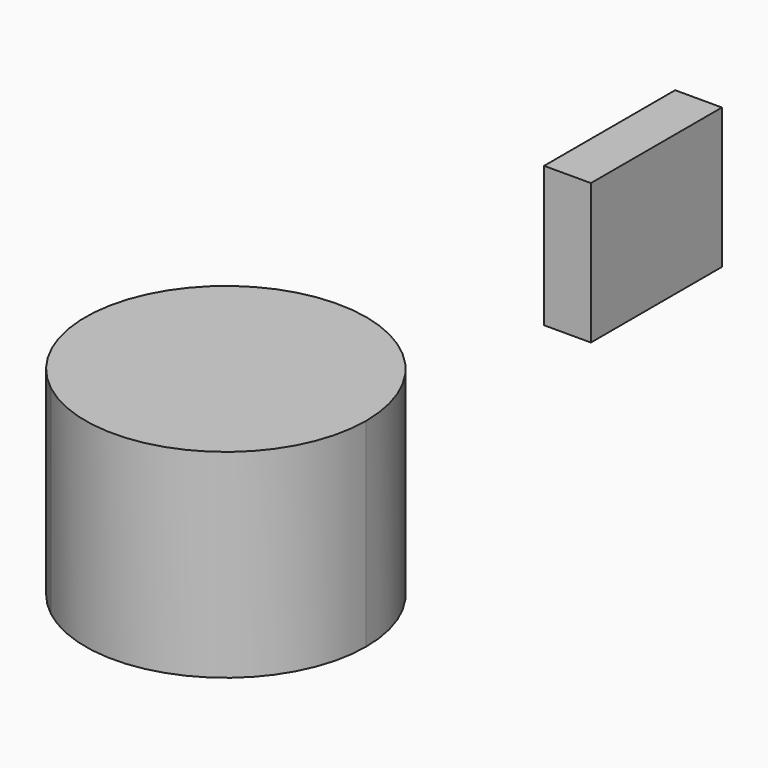
from build123d import *

# Parameters (mm, degrees)
F1_DEPTH = 107.95
F2_W     = 88.9
F2_H     = 76.2
F3_DEPTH = 25.4


with BuildPart() as f1:
    # F0 (on Top) → F1 (new body)
    with BuildSketch(Plane.XY):
        with BuildLine():
            ThreePointArc((-47.001828, -59.97723), (33.353416, -68.512697), (76.2, 0))
            ThreePointArc((76.2, 0), (-33.353416, 68.512697), (-47.001828, -59.97723))
        make_face()
    extrude(amount=F1_DEPTH)


with BuildPart() as f3:
    # F2 (on Right) → F3 (new body)
    with BuildSketch(Plane.YZ):
        with Locations((292.150138, 57.953555)):
            Rectangle(F2_W, F2_H)
    extrude(amount=-F3_DEPTH)


solid = Compound([f1.part, f3.part])
